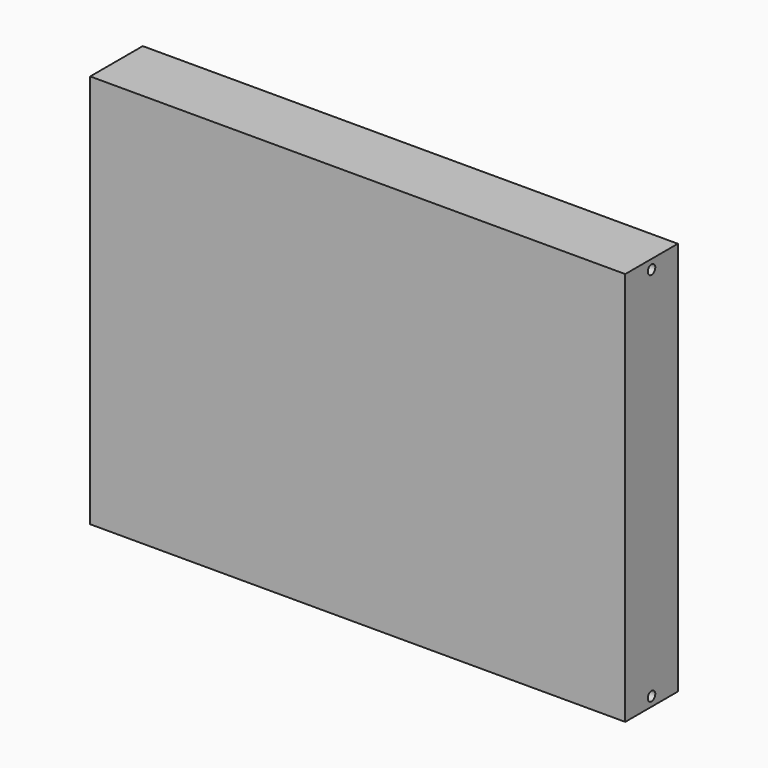
from build123d import *

# Parameters (mm, degrees)
F0_W     = 1447.8
F0_H     = 1066.8
F1_DEPTH = 177.8
F2_R     = 12.7
F3_DEPTH = 38.1
F4_R     = 12.7
F5_DEPTH = 38.1


with BuildPart() as f1:
    # F0 (on Front) → F1 (new body)
    with BuildSketch(Plane.XZ):
        with Locations((-25.960692, -418.023234)):
            Rectangle(F0_W, F0_H)
    extrude(amount=F1_DEPTH)

    # F2 (on face) → F3 (cut)
    with BuildSketch(Plane(origin=(0, 0, -951.423234), x_dir=(1, 0, 0), z_dir=(0, 0, -1))):
        with Locations((-654.610692, 88.9)):
            Circle(F2_R)
        with Locations((602.689308, 88.9)):
            Circle(F2_R)
    extrude(amount=-F3_DEPTH, mode=Mode.SUBTRACT)

    # F4 (on face) → F5 (cut)
    with BuildSketch(Plane.YZ.offset(697.939308)):
        with Locations((-88.9, 89.976766)):
            Circle(F4_R)
        with Locations((-88.9, -926.023234)):
            Circle(F4_R)
    extrude(amount=-F5_DEPTH, mode=Mode.SUBTRACT)


solid = f1.part
